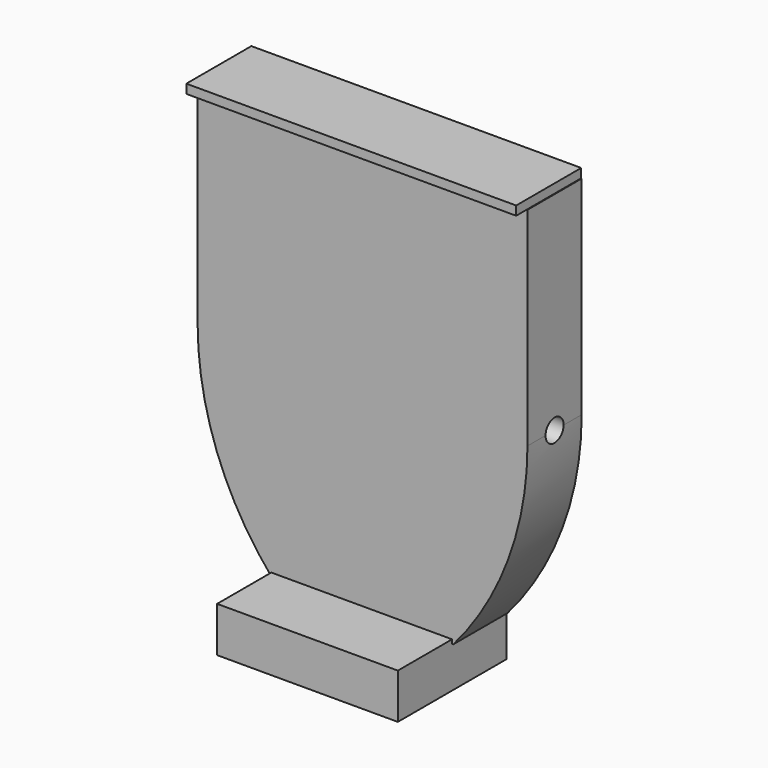
from build123d import *

# Parameters (mm, degrees)
F4_DEPTH = 15
F2_W     = 40
F2_H     = 10
F5_DEPTH = 30
F3_W     = 73
F3_H     = 2
F6_DEPTH = 18
F8_DEPTH = 88


with BuildPart() as f4:
    # F1 (on Front) → F4 (new body)
    with BuildSketch(Plane.XZ):
        with BuildLine():
            ThreePointArc((-43.3947380185, 9.0657884777), (-39.1345579648, -14.4084319097), (-26.9739441574, -34.9342115223))
            Line((-26.9739441574, -34.9342115223), (13.1844681203, -34.9342115223))
            ThreePointArc((13.1844681203, -34.9342115223), (25.3450819278, -14.4084319097), (29.6052619815, 9.0657884777))
            Line((29.6052619815, 9.0657884777), (29.6052619815, 53.0657884777))
            Line((29.6052619815, 53.0657884777), (29.6052619815, 55.0657884777))
            Line((29.6052619815, 55.0657884777), (-43.3947380185, 55.0657884777))
            Line((-43.3947380185, 55.0657884777), (-43.3947380185, 53.0657884777))
            Line((-43.3947380185, 53.0657884777), (-43.3947380185, 9.0657884777))
        make_face()
    extrude(amount=F4_DEPTH)

    # F2 (on Front) → F5 (join)
    with BuildSketch(Plane.XZ):
        with Locations((-7.0826117694, -39.0322719514)):
            Rectangle(F2_W, F2_H)
    extrude(amount=F5_DEPTH)

    # F7 (on face) → F8 (cut)
    with BuildSketch(Plane.YZ.offset(29.6052619815)):
        with BuildLine():
            Line((-10, 9.0657884777), (-5, 9.0657884777))
            ThreePointArc((-5, 9.0657884777), (-7.5, 11.5657884777), (-10, 9.0657884777))
        make_face()
        with BuildLine():
            ThreePointArc((-10, 9.0657884777), (-7.5, 6.5657884777), (-5, 9.0657884777))
            Line((-5, 9.0657884777), (-10, 9.0657884777))
        make_face()
    extrude(amount=-F8_DEPTH, mode=Mode.SUBTRACT)


with BuildPart() as f6:
    # F3 (on Front) → F6 (new body)
    with BuildSketch(Plane.XZ):
        with Locations((-6.9982702136, 56.1007837057)):
            Rectangle(F3_W, F3_H)
    extrude(amount=F6_DEPTH)


solid = Compound([f4.part, f6.part])
